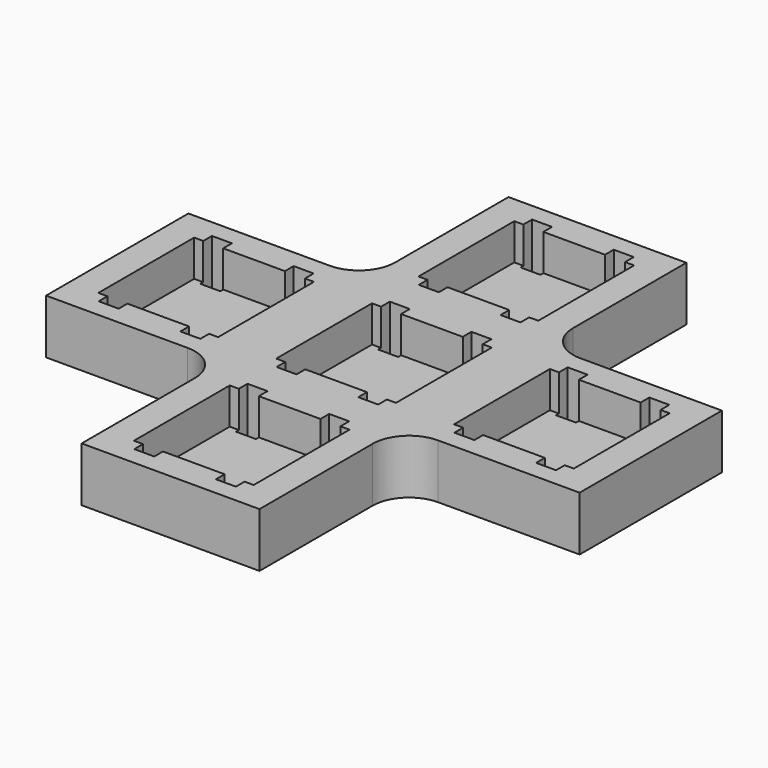
from build123d import *

# Parameters (mm, degrees)
PAD_DEPTH                          = 3
SKETCH001_W                        = 6.6
SKETCH001_H                        = 6.6
POCKET_DEPTH                       = 2
SKETCH002_W                        = 1.1
SKETCH002_H                        = 0.8
POCKET001_DEPTH                    = 86.372938
SKETCH002_LINEARPATTERN_2_W        = 1.1
SKETCH002_LINEARPATTERN_2_H        = 0.8
POCKET001_LINEARPATTERN_2_DEPTH    = 86.372938
SKETCH001_LINEARPATTERN_2_W        = 6.6
SKETCH001_LINEARPATTERN_2_H        = 6.6
POCKET_LINEARPATTERN_2_DEPTH       = 2
LINEARPATTERN001_COUNT             = 2
LINEARPATTERN001_PITCH             = 9.8
SKETCH001_LINEARPATTERN002_2_W     = 6.6
SKETCH001_LINEARPATTERN002_2_H     = 6.6
POCKET_LINEARPATTERN002_2_DEPTH    = 2
SKETCH002_LINEARPATTERN002_2_W     = 1.1
SKETCH002_LINEARPATTERN002_2_H     = 0.8
POCKET001_LINEARPATTERN002_2_DEPTH = 86.372938
LINEARPATTERN003_COUNT             = 2
LINEARPATTERN003_PITCH             = 9.8
FILLET_R                           = 2


with BuildPart() as part:
    # Sketch → Pad (new body)
    with BuildSketch(Plane.XY):
        Polygon((-4.9, 4.9), (-4.9, 14.7), (4.9, 14.7), (4.9, 4.9), (14.7, 4.9), (14.7, -4.9), (4.9, -4.9), (4.9, -14.7), (-4.9, -14.7), (-4.9, -4.9), (-14.7, -4.9), (-14.7, 4.9), align=None)
    extrude(amount=PAD_DEPTH)

    # Sketch001 (on Face14 of Pad) → Pocket (cut)
    with BuildSketch(Plane.XY.offset(3)):
        Rectangle(SKETCH001_W, SKETCH001_H)
    pocket = extrude(amount=-POCKET_DEPTH, mode=Mode.SUBTRACT)

    # Sketch002 (on Face5 of Pocket) → Pocket001 (cut, through all)
    with BuildSketch(Plane.XY.offset(3)):
        with Locations((-2.25, 3.5)):
            Rectangle(SKETCH002_W, SKETCH002_H)
        with Locations((2.25, 3.5)):
            Rectangle(SKETCH002_W, SKETCH002_H)
        with Locations((2.25, -3.5)):
            Rectangle(SKETCH002_W, SKETCH002_H)
        with Locations((-2.25, -3.5)):
            Rectangle(SKETCH002_W, SKETCH002_H)
    pocket001 = extrude(amount=-POCKET001_DEPTH, mode=Mode.SUBTRACT)

    # Sketch002 LinearPattern 2 → Pocket001 LinearPattern 2 (cut, through all)
    with BuildSketch(Plane(origin=(9.8, 0, 3), x_dir=(1, 0, 0), z_dir=(0, 0, 1))):
        with Locations((-2.25, 3.5)):
            Rectangle(SKETCH002_LINEARPATTERN_2_W, SKETCH002_LINEARPATTERN_2_H)
        with Locations((2.25, 3.5)):
            Rectangle(SKETCH002_LINEARPATTERN_2_W, SKETCH002_LINEARPATTERN_2_H)
        with Locations((2.25, -3.5)):
            Rectangle(SKETCH002_LINEARPATTERN_2_W, SKETCH002_LINEARPATTERN_2_H)
        with Locations((-2.25, -3.5)):
            Rectangle(SKETCH002_LINEARPATTERN_2_W, SKETCH002_LINEARPATTERN_2_H)
    pocket001_linearpattern_2 = extrude(amount=-POCKET001_LINEARPATTERN_2_DEPTH, mode=Mode.SUBTRACT)

    # Sketch001 LinearPattern 2 → Pocket LinearPattern 2 (cut)
    with BuildSketch(Plane(origin=(9.8, 0, 3), x_dir=(1, 0, 0), z_dir=(0, 0, 1))):
        Rectangle(SKETCH001_LINEARPATTERN_2_W, SKETCH001_LINEARPATTERN_2_H)
    pocket_linearpattern_2 = extrude(amount=-POCKET_LINEARPATTERN_2_DEPTH, mode=Mode.SUBTRACT)

    # LinearPattern001: Pocket001, Pocket, Pocket001 LinearPattern 2, Pocket LinearPattern 2 ×2
    with Locations(*[(-i * LINEARPATTERN001_PITCH, 0, 0) for i in range(1, LINEARPATTERN001_COUNT)]):
        add(pocket001, mode=Mode.SUBTRACT)
        add(pocket, mode=Mode.SUBTRACT)
        add(pocket001_linearpattern_2, mode=Mode.SUBTRACT)
        add(pocket_linearpattern_2, mode=Mode.SUBTRACT)

    # Sketch001 LinearPattern002 2 → Pocket LinearPattern002 2 (cut)
    with BuildSketch(Plane(origin=(0, 9.8, 3), x_dir=(1, 0, 0), z_dir=(0, 0, 1))):
        Rectangle(SKETCH001_LINEARPATTERN002_2_W, SKETCH001_LINEARPATTERN002_2_H)
    pocket_linearpattern002_2 = extrude(amount=-POCKET_LINEARPATTERN002_2_DEPTH, mode=Mode.SUBTRACT)

    # Sketch002 LinearPattern002 2 → Pocket001 LinearPattern002 2 (cut, through all)
    with BuildSketch(Plane(origin=(0, 9.8, 3), x_dir=(1, 0, 0), z_dir=(0, 0, 1))):
        with Locations((-2.25, 3.5)):
            Rectangle(SKETCH002_LINEARPATTERN002_2_W, SKETCH002_LINEARPATTERN002_2_H)
        with Locations((2.25, 3.5)):
            Rectangle(SKETCH002_LINEARPATTERN002_2_W, SKETCH002_LINEARPATTERN002_2_H)
        with Locations((2.25, -3.5)):
            Rectangle(SKETCH002_LINEARPATTERN002_2_W, SKETCH002_LINEARPATTERN002_2_H)
        with Locations((-2.25, -3.5)):
            Rectangle(SKETCH002_LINEARPATTERN002_2_W, SKETCH002_LINEARPATTERN002_2_H)
    pocket001_linearpattern002_2 = extrude(amount=-POCKET001_LINEARPATTERN002_2_DEPTH, mode=Mode.SUBTRACT)

    # LinearPattern003: Pocket, Pocket001, Pocket LinearPattern002 2, Pocket001 LinearPattern002 2 ×2
    with Locations(*[(0, -i * LINEARPATTERN003_PITCH, 0) for i in range(1, LINEARPATTERN003_COUNT)]):
        add(pocket, mode=Mode.SUBTRACT)
        add(pocket001, mode=Mode.SUBTRACT)
        add(pocket_linearpattern002_2, mode=Mode.SUBTRACT)
        add(pocket001_linearpattern002_2, mode=Mode.SUBTRACT)

    # Fillet
    fillet_edges = [part.edges().sort_by_distance(p)[0] for p in [
        (-4.9, -4.9, 1.5),
        (4.9, -4.9, 1.5),
        (4.9, 4.9, 1.5),
        (-4.9, 4.9, 1.5),
    ]]
    fillet(fillet_edges, radius=FILLET_R)


solid = part.part
